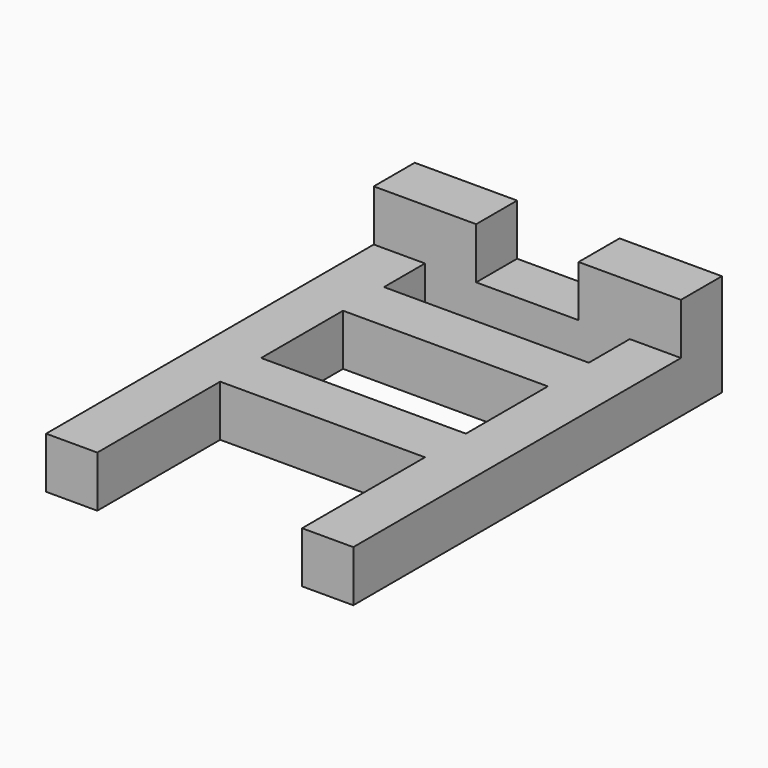
from build123d import *

# Parameters (mm, degrees)
F0_W     = 3.175
F0_H     = 3.175
F0_H_2   = 6.35
F0_W_2   = 12.7
F1_DEPTH = 3.175
F2_W     = 19.05
F2_H     = 3.175
F3_DEPTH = 6.35
F4_W     = 6.35
F4_H     = 3.175
F5_DEPTH = 25.4


with BuildPart() as f1:
    # F0 (on Top) → F1 (new body)
    with BuildSketch(Plane.XY):
        with Locations((1.5875, 1.5875)):
            Rectangle(F0_W, F0_H)
        with Locations((1.5875, 6.35)):
            Rectangle(F0_W, F0_H_2)
        with Locations((1.5875, 11.1125)):
            Rectangle(F0_W, F0_H)
        with Locations((1.5875, 15.875)):
            Rectangle(F0_W, F0_H_2)
        with Locations((9.525, 11.1125)):
            Rectangle(F0_W_2, F0_H)
        with Locations((1.5875, 20.6375)):
            Rectangle(F0_W, F0_H)
        with Locations((17.4625, 6.35)):
            Rectangle(F0_W, F0_H_2)
        with Locations((17.4625, 11.1125)):
            Rectangle(F0_W, F0_H)
        with Locations((1.5875, 23.8125)):
            Rectangle(F0_W, F0_H)
        with Locations((9.525, 20.6375)):
            Rectangle(F0_W_2, F0_H)
        with Locations((17.4625, 15.875)):
            Rectangle(F0_W, F0_H_2)
        with Locations((17.4625, 1.5875)):
            Rectangle(F0_W, F0_H)
        with Locations((17.4625, 20.6375)):
            Rectangle(F0_W, F0_H)
        with Locations((17.4625, 23.8125)):
            Rectangle(F0_W, F0_H)
        with Locations((1.5875, 6.35)):
            Rectangle(F0_W, F0_H_2)
    extrude(amount=F1_DEPTH)

    # F2 (on face) → F3 (join)
    with BuildSketch(Plane(origin=(0, 0, 0), x_dir=(1, 0, 0), z_dir=(0, 0, -1))):
        with Locations((9.525, -26.9875)):
            Rectangle(F2_W, F2_H)
    extrude(amount=-F3_DEPTH)

    # F4 (on face) → F5 (cut)
    with BuildSketch(Plane(origin=(0, 28.575, 0), x_dir=(-1, 0, 0), z_dir=(0, 1, 0))):
        with Locations((-9.525, 4.7625)):
            Rectangle(F4_W, F4_H)
    extrude(amount=-F5_DEPTH, mode=Mode.SUBTRACT)


solid = f1.part
